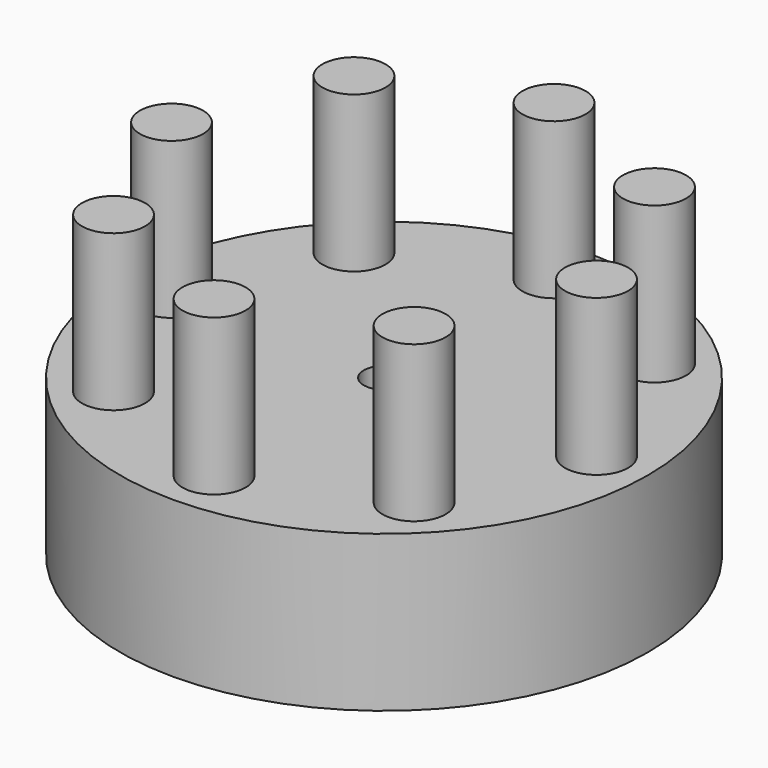
from build123d import *

# Parameters (mm, degrees)
F0_R     = 5.145044
F1_DEPTH = 50.8
F2_DEPTH = 50.8
F3_DEPTH = 50.8
F4_DEPTH = 50.8
F5_DEPTH = 50.8
F6_DEPTH = 50.8
F7_DEPTH = 50.8
F8_DEPTH = 50.8
F0_R_2   = 43.024992
F0_R_3   = 3.302
F9_DEPTH = 25.4


with BuildPart() as f1:
    # F0 (on Top) → F1 (new body)
    with BuildSketch(Plane.XY):
        with Locations((0, 34.636855)):
            Circle(F0_R)
    extrude(amount=F1_DEPTH)


with BuildPart() as f2:
    # F0 (on Top) → F2 (new body)
    with BuildSketch(Plane.XY):
        with Locations((-24.491955, 24.491955)):
            Circle(F0_R)
    extrude(amount=F2_DEPTH)


with BuildPart() as f3:
    # F0 (on Top) → F3 (new body)
    with BuildSketch(Plane.XY):
        with Locations((-34.636855, 0)):
            Circle(F0_R)
    extrude(amount=F3_DEPTH)


with BuildPart() as f4:
    # F0 (on Top) → F4 (new body)
    with BuildSketch(Plane.XY):
        with Locations((-24.491955, -24.491955)):
            Circle(F0_R)
    extrude(amount=F4_DEPTH)


with BuildPart() as f5:
    # F0 (on Top) → F5 (new body)
    with BuildSketch(Plane.XY):
        with Locations((0, -34.636855)):
            Circle(F0_R)
    extrude(amount=F5_DEPTH)


with BuildPart() as f6:
    # F0 (on Top) → F6 (new body)
    with BuildSketch(Plane.XY):
        with Locations((24.491955, -24.491955)):
            Circle(F0_R)
    extrude(amount=F6_DEPTH)


with BuildPart() as f7:
    # F0 (on Top) → F7 (new body)
    with BuildSketch(Plane.XY):
        with Locations((34.636855, 0)):
            Circle(F0_R)
    extrude(amount=F7_DEPTH)


with BuildPart() as f8:
    # F0 (on Top) → F8 (new body)
    with BuildSketch(Plane.XY):
        with Locations((24.491955, 24.491955)):
            Circle(F0_R)
    extrude(amount=F8_DEPTH)


with BuildPart() as f9:
    # F0 (on Top) → F9 (new body)
    with BuildSketch(Plane.XY):
        Circle(F0_R_2)
        with Locations((-24.491955, -24.491955)):
            Circle(F0_R, mode=Mode.SUBTRACT)
        with Locations((0, -34.636855)):
            Circle(F0_R, mode=Mode.SUBTRACT)
        with Locations((-34.636855, 0)):
            Circle(F0_R, mode=Mode.SUBTRACT)
        Circle(F0_R_3, mode=Mode.SUBTRACT)
        with Locations((24.491955, -24.491955)):
            Circle(F0_R, mode=Mode.SUBTRACT)
        with Locations((34.636855, 0)):
            Circle(F0_R, mode=Mode.SUBTRACT)
        with Locations((-24.491955, 24.491955)):
            Circle(F0_R, mode=Mode.SUBTRACT)
        with Locations((0, 34.636855)):
            Circle(F0_R, mode=Mode.SUBTRACT)
        with Locations((24.491955, 24.491955)):
            Circle(F0_R, mode=Mode.SUBTRACT)
    extrude(amount=F9_DEPTH)


solid = Compound([f1.part, f2.part, f3.part, f4.part, f5.part, f6.part, f7.part, f8.part, f9.part])
